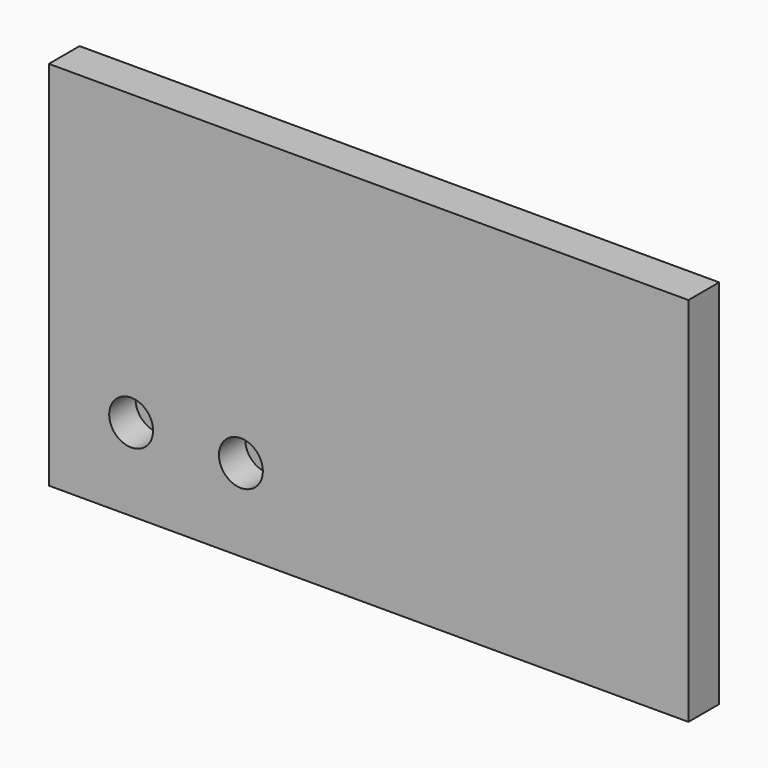
from build123d import *

# Parameters (mm, degrees)
F0_W     = 116.5554597974
F0_H     = 67.673869431
F1_DEPTH = 7
F4_START = -6.4
F4_DEPTH = 37
F2_R     = 1.6
F5_DEPTH = 10.001
F2_R_2   = 4
F6_DEPTH = 6


with BuildPart() as f1:
    # F0 (on Front) → F1 (new body)
    with BuildSketch(Plane.XZ):
        with Locations((58.2777298987, 33.8369347155)):
            Rectangle(F0_W, F0_H)
    extrude(amount=F1_DEPTH)

    # F3 (on face) → F4 (join)
    with BuildSketch(Plane(origin=(0, 0, 0), x_dir=(0, -1, 0), z_dir=(-1, 0, 0)).offset(F4_START)):
        Polygon((-3, 8.2424322584), (0, 0), (0, 29.4848645167), (-3, 21.2424322584), align=None)
    extrude(amount=-F4_DEPTH)

    # F2 (on face) → F5 (cut, through all)
    with BuildSketch(Plane.XZ.offset(7)):
        with Locations((15, 15)):
            Circle(F2_R)
        with Locations((35, 15)):
            Circle(F2_R)
    extrude(amount=-F5_DEPTH, mode=Mode.SUBTRACT)

    # F2 (on face) → F6 (cut)
    with BuildSketch(Plane.XZ.offset(7)):
        with Locations((15, 15)):
            Circle(F2_R_2)
        with Locations((15, 15)):
            Circle(F2_R, mode=Mode.SUBTRACT)
        with Locations((35, 15)):
            Circle(F2_R_2)
        with Locations((35, 15)):
            Circle(F2_R, mode=Mode.SUBTRACT)
    extrude(amount=-F6_DEPTH, mode=Mode.SUBTRACT)


solid = f1.part
